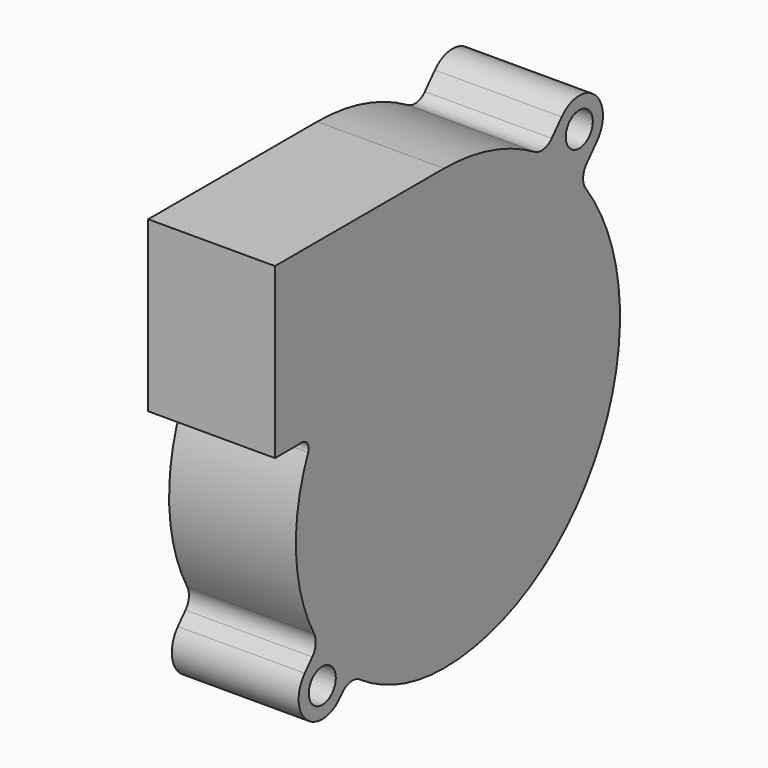
from build123d import *

# Parameters (mm, degrees)
F0_R     = 2
F0_R_2   = 16
F0_R_3   = 12
F1_DEPTH = 15


with BuildPart() as f1:
    # F0 (on Right) → F1 (new body)
    with BuildSketch(Plane.YZ):
        with BuildLine():
            Line((0, 27.04), (-25, 27.04))
            Line((-25, 27.04), (-25, 7.04))
            Line((-25, 7.04), (-21, 7.04))
            ThreePointArc((-21, 7.04), (-20.163638, 6.588177), (-20.08305, 5.640997))
            ThreePointArc((-20.08305, 5.640997), (-21.879632, -4.088083), (-19.211664, -13.615132))
            ThreePointArc((-19.211664, -13.615132), (-18.979502, -14.807582), (-19.480274, -15.914409))
            Line((-19.480274, -15.914409), (-20.600008, -17.156934))
            ThreePointArc((-20.600008, -17.156934), (-20.343066, -22.100008), (-15.399992, -21.843066))
            Line((-15.399992, -21.843066), (-15.041526, -21.44529))
            ThreePointArc((-15.041526, -21.44529), (-13.789573, -20.797894), (-12.421526, -21.136943))
            ThreePointArc((-12.421526, -21.136943), (-6.504182, -24.011949), (0, -25))
            ThreePointArc((0, -25), (18.034689, -17.736076), (26, 0))
            ThreePointArc((26, 0), (24.875659, 8.651645), (20.954714, 16.445315))
            ThreePointArc((20.954714, 16.445315), (20.567821, 17.729828), (21.079657, 18.969861))
            Line((21.079657, 18.969861), (22.600008, 20.656934))
            ThreePointArc((22.600008, 20.656934), (22.343066, 25.600008), (17.399992, 25.343066))
            Line((17.399992, 25.343066), (15.917898, 23.698445))
            ThreePointArc((15.917898, 23.698445), (14.727343, 23.05924), (13.402045, 23.32304))
            ThreePointArc((13.402045, 23.32304), (6.953967, 26.093547), (0, 27.04))
        make_face()
        with Locations((-18, -19.5)):
            Circle(F0_R, mode=Mode.SUBTRACT)
        Circle(F0_R_2, mode=Mode.SUBTRACT)
        with Locations((20, 23)):
            Circle(F0_R, mode=Mode.SUBTRACT)
        Circle(F0_R_2)
        Circle(F0_R_3, mode=Mode.SUBTRACT)
        Circle(F0_R_3)
    extrude(amount=F1_DEPTH)


solid = f1.part
